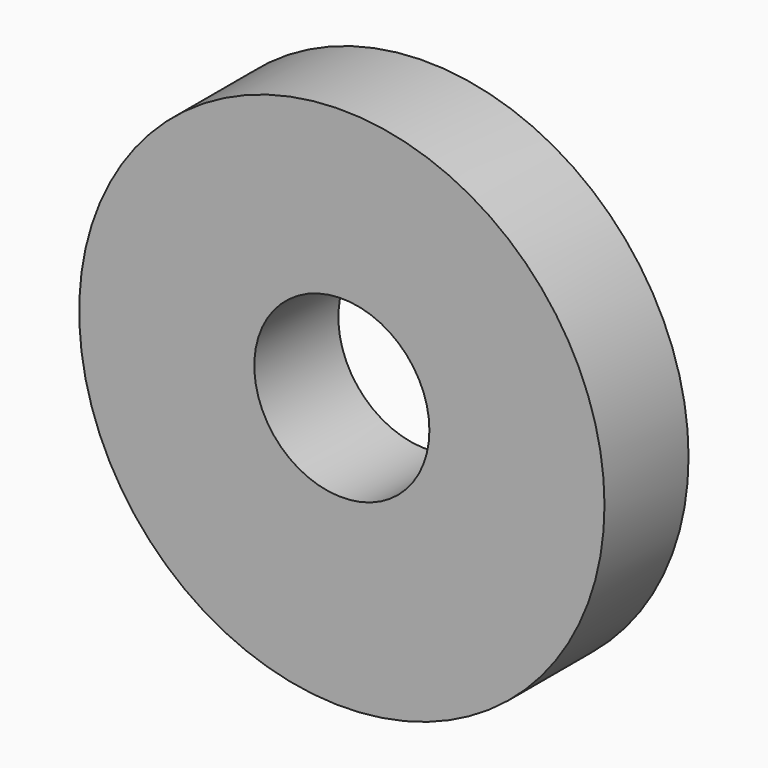
from build123d import *

# Parameters (mm, degrees)
F0_R     = 30
F0_R_2   = 10
F1_DEPTH = 6


with BuildPart() as f1:
    # F0 (on Front) → F1 (new body, symmetric)
    with BuildSketch(Plane.XZ):
        with Locations((0, -1.03363)):
            Circle(F0_R)
        Circle(F0_R_2, mode=Mode.SUBTRACT)
    extrude(amount=F1_DEPTH, both=True)


solid = f1.part
